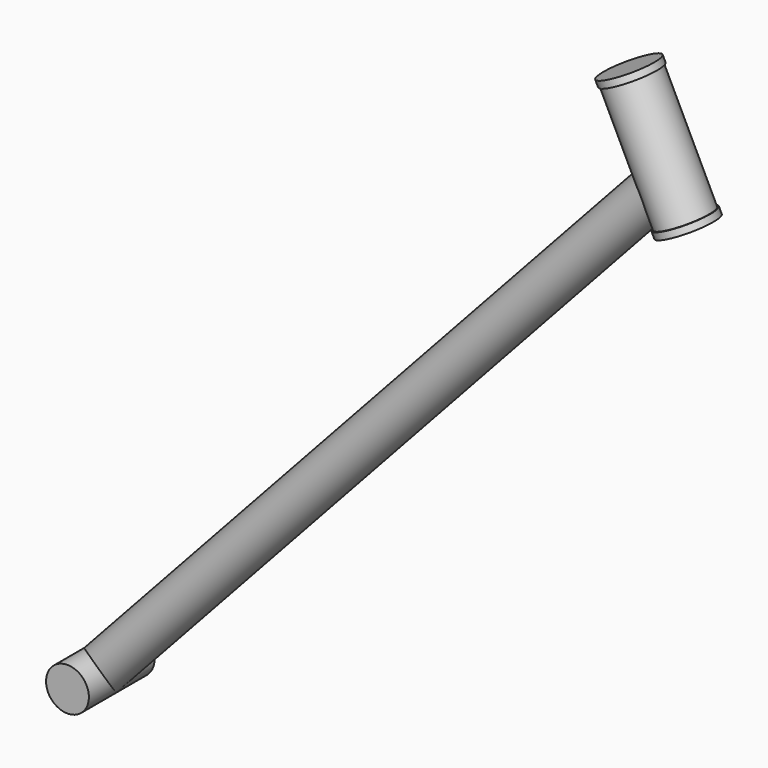
from build123d import *

# Parameters (mm, degrees)
F5_R      = 19.05
F6_DEPTH  = 36.5
F4_R      = 25
F4_R_2    = 23.8
F7_DEPTH  = 120
F8_DEPTH  = 114
F9_DEPTH  = 120
F10_DEPTH = 6
F2_R      = 19.05


with BuildPart() as f6:
    # F5 (on face) → F6 (new body, symmetric)
    with BuildSketch(Plane.XZ):
        with Locations((420.015544, -50.061494)):
            Circle(F5_R)
    extrude(amount=F6_DEPTH, both=True)


with BuildPart() as f7:
    # F4 (on face) → F7 (new body)
    with BuildSketch(Plane(origin=(-55.522448, 0, 113.837889), x_dir=(0.898794, 0, 0.438371), z_dir=(0.438371, 0, -0.898794))):
        with Locations((1052.135229, 0)):
            Circle(F4_R)
        with Locations((1052.135229, 0)):
            Circle(F4_R_2, mode=Mode.SUBTRACT)
    extrude(amount=F7_DEPTH)

    # F4 (on face) → F8 (cut)
    with BuildSketch(Plane(origin=(-55.522448, 0, 113.837889), x_dir=(0.898794, 0, 0.438371), z_dir=(0.438371, 0, -0.898794))):
        with Locations((1052.135229, 0)):
            Circle(F4_R_2)
        with Locations((1052.135229, 0)):
            Circle(F4_R)
        with Locations((1052.135229, 0)):
            Circle(F4_R_2, mode=Mode.SUBTRACT)
    extrude(amount=F8_DEPTH, mode=Mode.SUBTRACT)

    # F4 (on face) → F9 (join)
    with BuildSketch(Plane(origin=(-55.522448, 0, 113.837889), x_dir=(0.898794, 0, 0.438371), z_dir=(0.438371, 0, -0.898794))):
        with Locations((1052.135229, 0)):
            Circle(F4_R_2)
    extrude(amount=F9_DEPTH)

    # F4 (on face) → F10 (join)
    with BuildSketch(Plane(origin=(-55.522448, 0, 113.837889), x_dir=(0.898794, 0, 0.438371), z_dir=(0.438371, 0, -0.898794))):
        with Locations((1052.135229, 0)):
            Circle(F4_R)
        with Locations((1052.135229, 0)):
            Circle(F4_R_2, mode=Mode.SUBTRACT)
    extrude(amount=F10_DEPTH)


with BuildPart() as f11:
    # F11: sweep along a path in F0
    with BuildLine(Plane.XZ) as f11_path:
        Line((420, -50), (926.384805, 500.400094))
    # F2 (on face) → F11 (sweep)
    with BuildSketch(Plane(origin=(167.623801, 0, 182.193769), x_dir=(0.73592, 0, -0.677069), z_dir=(0.677069, 0, 0.73592))):
        with Locations((342.971563, 0)):
            Circle(F2_R)
    sweep(path=f11_path.line)


solid = Compound([f6.part, f7.part, f11.part])
